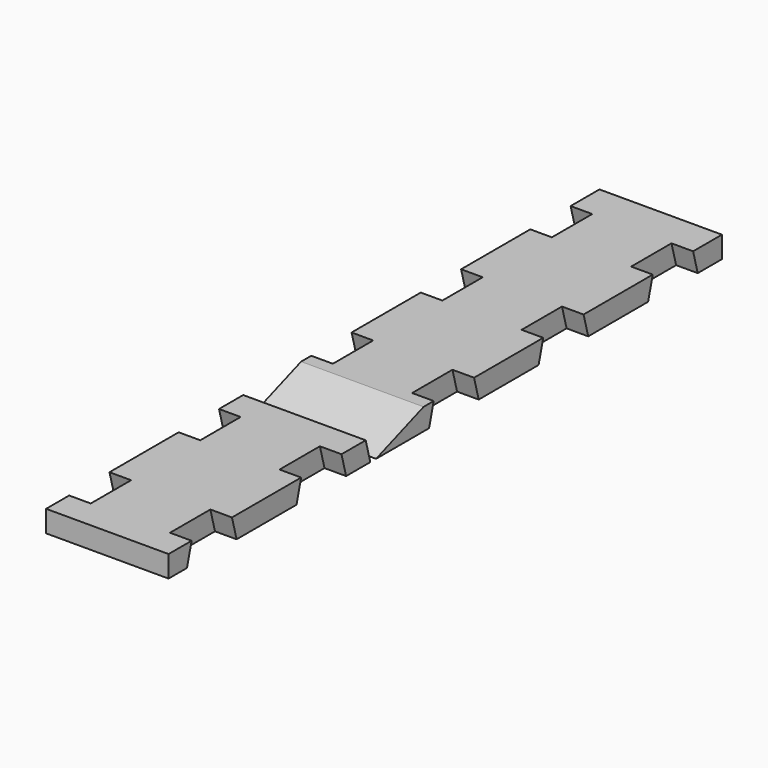
from build123d import *

# Parameters (mm, degrees)
F0_W     = 152.4
F0_H     = 4.7625
F1_DEPTH = 13.49375
F3_DEPTH = 4.7625
F5_DEPTH = 4.7625
F7_DEPTH = 26.9885


with BuildPart() as f1:
    # F0 (on Right) → F1 (new body, symmetric)
    with BuildSketch(Plane.YZ):
        with Locations((0, -2.38125)):
            Rectangle(F0_W, F0_H)
    extrude(amount=F1_DEPTH, both=True)

    # F2 (on face) → F3 (cut)
    with BuildSketch(Plane.YZ.offset(13.49375)):
        Polygon((-58.7375, 0), (-69.85, 0), (-71.126108, -4.7625), (-57.461392, -4.7625), align=None)
        Polygon((-28.575, 0), (-39.6875, 0), (-40.963608, -4.7625), (-27.298892, -4.7625), align=None)
        Polygon((7.9375, 0), (-3.175, 0), (-4.451108, -4.7625), (9.213608, -4.7625), align=None)
        Polygon((38.1, 0), (26.9875, 0), (25.711392, -4.7625), (39.376108, -4.7625), align=None)
        Polygon((68.2625, 0), (57.15, 0), (55.873892, -4.7625), (69.538608, -4.7625), align=None)
    extrude(amount=-F3_DEPTH, mode=Mode.SUBTRACT)

    # F4 (on face) → F5 (cut)
    with BuildSketch(Plane(origin=(-13.49375, 0, 0), x_dir=(0, -1, 0), z_dir=(-1, 0, 0))):
        Polygon((-69.538608, -4.7625), (-55.873892, -4.7625), (-57.15, 0), (-68.2625, 0), align=None)
        Polygon((-39.376108, -4.7625), (-25.711392, -4.7625), (-26.9875, 0), (-38.1, 0), align=None)
        Polygon((-9.213608, -4.7625), (4.451108, -4.7625), (3.175, 0), (-7.9375, 0), align=None)
        Polygon((27.298892, -4.7625), (40.963608, -4.7625), (39.6875, 0), (28.575, 0), align=None)
        Polygon((58.7375, 0), (57.461392, -4.7625), (71.126108, -4.7625), (69.85, 0), align=None)
    extrude(amount=-F5_DEPTH, mode=Mode.SUBTRACT)

    # F6 (on face) → F7 (cut, through all)
    with BuildSketch(Plane.YZ.offset(13.49375)):
        Polygon((-19.05, -4.7625), (-5.965139, 0), (-21.913608, 0), (-20.6375, -4.7625), align=None)
    extrude(amount=-F7_DEPTH, mode=Mode.SUBTRACT)


solid = f1.part
